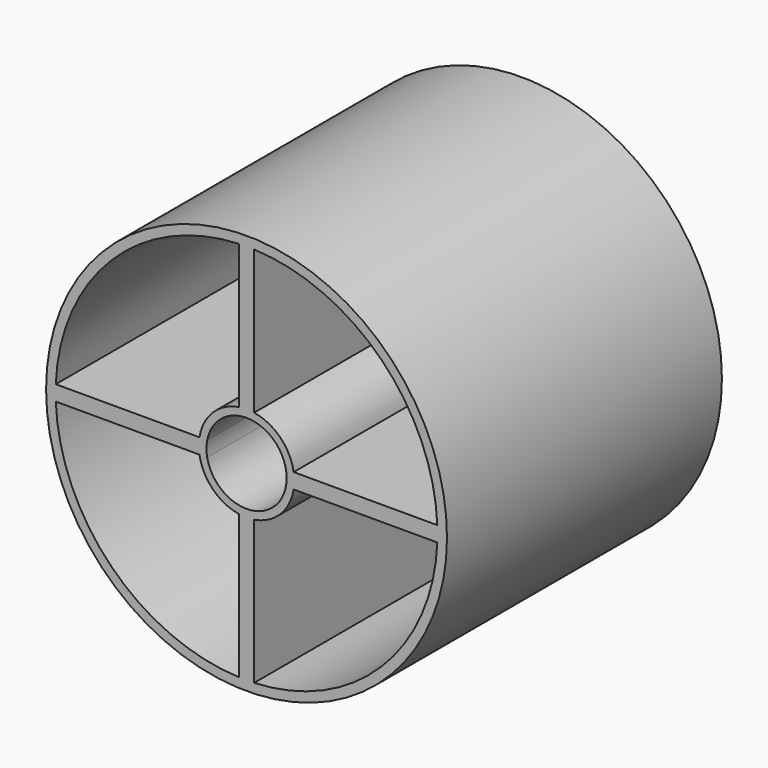
from build123d import *

# Parameters (mm, degrees)
F0_R     = 26.25
F1_DEPTH = 45


with BuildPart() as f1:
    # F0 (on Front) → F1 (new body)
    with BuildSketch(Plane.XZ):
        Circle(F0_R)
        with BuildLine():
            ThreePointArc((-1, -24.979992), (-17.67767, -17.67767), (-24.979992, -1))
            Line((-24.979992, -1), (-6.169481, -1))
            ThreePointArc((-6.169481, -1), (-4.419417, -4.419417), (-1, -6.169481))
            Line((-1, -6.169481), (-1, -24.979992))
        make_face(mode=Mode.SUBTRACT)
        with BuildLine():
            Line((1, -24.979992), (1, -6.169481))
            ThreePointArc((1, -6.169481), (4.419417, -4.419417), (6.169481, -1))
            Line((6.169481, -1), (24.979992, -1))
            ThreePointArc((24.979992, -1), (17.67767, -17.67767), (1, -24.979992))
        make_face(mode=Mode.SUBTRACT)
        with BuildLine():
            Line((-1, 24.979992), (-1, 6.169481))
            ThreePointArc((-1, 6.169481), (-4.419417, 4.419417), (-6.169481, 1))
            Line((-6.169481, 1), (-24.979992, 1))
            ThreePointArc((-24.979992, 1), (-17.67767, 17.67767), (-1, 24.979992))
        make_face(mode=Mode.SUBTRACT)
        with BuildLine():
            ThreePointArc((-5.153882, 1), (5.25, 0), (-5.153882, -1))
            ThreePointArc((-5.153882, -1), (-5.25, 0), (-5.153882, 1))
        make_face(mode=Mode.SUBTRACT)
        with BuildLine():
            ThreePointArc((6.169481, 1), (4.419417, 4.419417), (1, 6.169481))
            Line((1, 6.169481), (1, 24.979992))
            ThreePointArc((1, 24.979992), (17.67767, 17.67767), (24.979992, 1))
            Line((24.979992, 1), (6.169481, 1))
        make_face(mode=Mode.SUBTRACT)
    extrude(amount=F1_DEPTH)


solid = f1.part
